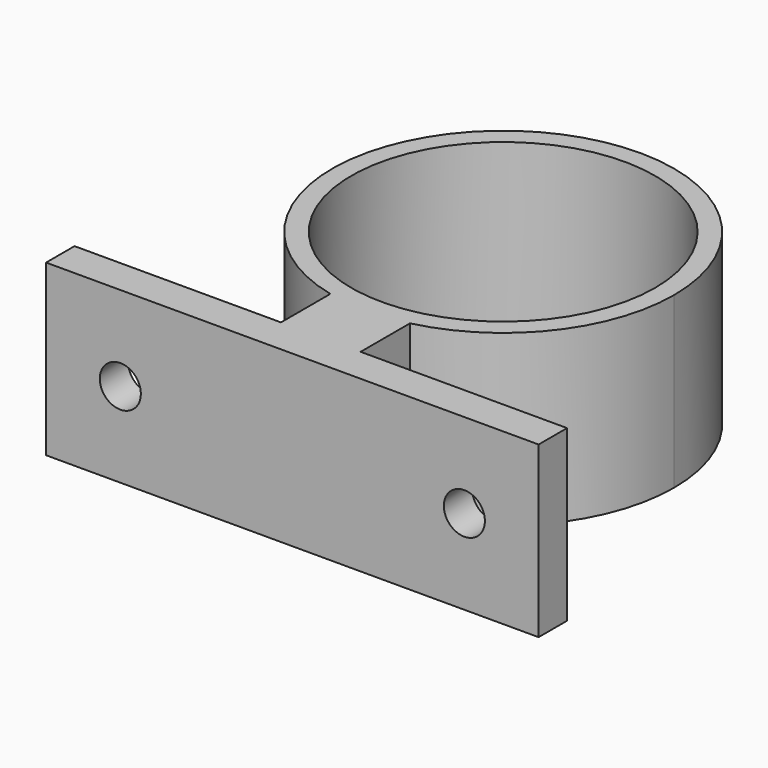
from build123d import *

# Parameters (mm, degrees)
F0_R     = 14.097
F0_W     = 7.3929424398
F0_H     = 1.651
F1_DEPTH = 15.748
F2_R     = 1.905
F3_DEPTH = 9.4742


with BuildPart() as f1:
    # F0 (on Top) → F1 (new body)
    with BuildSketch(Plane.XY):
        with BuildLine():
            ThreePointArc((3.6964712199, -15.4386439016), (12.4638899549, -9.8319414254), (15.875, 0))
            ThreePointArc((15.875, 0), (-9.8319414254, 12.4638899549), (-3.6964712199, -15.4386439016))
            Line((-3.6964712199, -15.4386439016), (-3.6964712199, -15.1949884841))
            Line((-3.6964712199, -15.1949884841), (3.6964712199, -15.1949884841))
            Line((3.6964712199, -15.1949884841), (3.6964712199, -15.4386439016))
        make_face()
        Circle(F0_R, mode=Mode.SUBTRACT)
        with BuildLine():
            Line((-3.6964712199, -15.1949884841), (-3.6964712199, -15.4386439016))
            ThreePointArc((-3.6964712199, -15.4386439016), (0, -15.875), (3.6964712199, -15.4386439016))
            Line((3.6964712199, -15.4386439016), (3.6964712199, -15.1949884841))
            Line((3.6964712199, -15.1949884841), (-3.6964712199, -15.1949884841))
        make_face()
        with BuildLine():
            ThreePointArc((3.6964712199, -15.4386439016), (0, -15.875), (-3.6964712199, -15.4386439016))
            Line((-3.6964712199, -15.4386439016), (-3.6964712199, -21.1639884841))
            Line((-3.6964712199, -21.1639884841), (3.6964712199, -21.1639884841))
            Line((3.6964712199, -21.1639884841), (3.6964712199, -15.4386439016))
        make_face()
        with Locations((0, -21.9894884841)):
            Rectangle(F0_W, F0_H)
        Polygon((-3.6964712199, -22.8149884841), (-3.6964712199, -21.1639884841), (-22.86, -21.1639884841), (-22.86, -24.4659884841), (22.86, -24.4659884841), (22.86, -21.1639884841), (3.6964712199, -21.1639884841), (3.6964712199, -22.8149884841), align=None)
    extrude(amount=F1_DEPTH)

    # F2 (on face) → F3 (cut)
    with BuildSketch(Plane.XZ.offset(24.4659884841)):
        with Locations((-15.9683022648, 7.874)):
            Circle(F2_R)
        with Locations((15.9683022648, 7.874)):
            Circle(F2_R)
    extrude(amount=-F3_DEPTH, mode=Mode.SUBTRACT)


solid = f1.part
